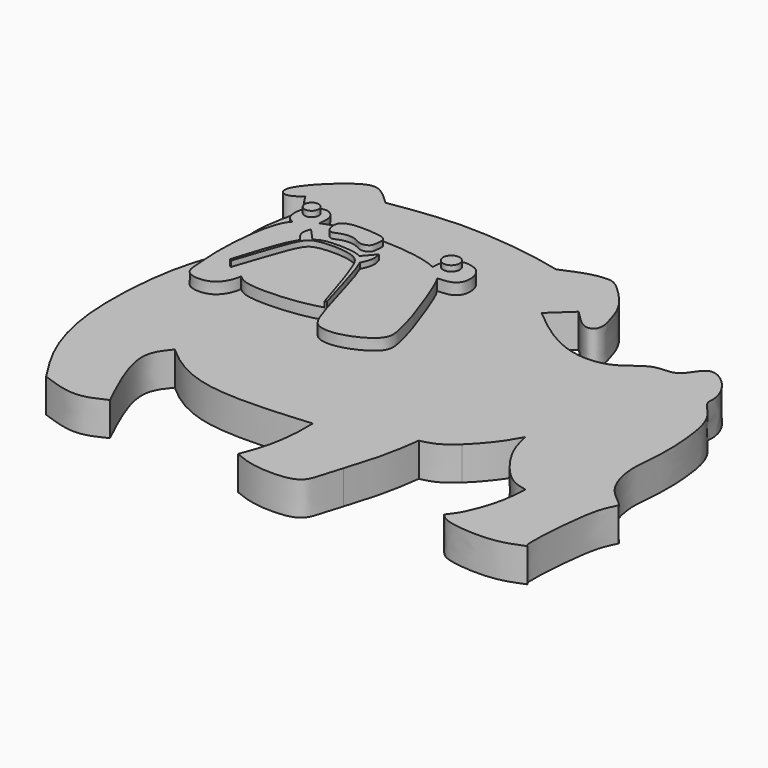
from build123d import *

# Parameters (mm, degrees)
F1_DEPTH = 3
F0_R     = 0.7406308254
F0_R_2   = 0.6253088642
F2_DEPTH = 4
F3_DEPTH = 4.5
F4_DEPTH = 4.5


with BuildPart() as f1:
    # F0 (on Top) → F1 (new body)
    with BuildSketch(Plane.XY):
        with BuildLine():
            add(Edge.make_bspline(
                [(2.3747666273, 7.2205616161), (3.3034100244, 6.4542424252), (5.1155178729, 4.9588858387), (8.1192135558, 3.6121656541), (11.3921713705, 3.9000785755), (13.346186106, 6.1285524159), (15.6519874402, 5.5871305921), (16.5177623069, 7.788565022), (17.9299092285, 7.7487794237), (19.5473458528, 6.091296363), (19.9230430875, 4.5035008864), (19.702481861, 3.7303227845), (21.5381739532, 2.2605049308), (22.121375908, -1.0959105713), (22.2437571431, -4.449275331), (21.7501738349, -7.4286054564), (22.6545439615, -10.4881017453), (24.4206314555, -11.6777837892), (24.6167840328, -11.9597898634), (24.677131325, -12.0465504006)],
                knots=[0, 0, 0, 0, 0.0752134027, 0.1467676373, 0.216584729, 0.2822231501, 0.3375530774, 0.3926311659, 0.4344026798, 0.4942821331, 0.5440974114, 0.5762382612, 0.6329601171, 0.7065819687, 0.7799984528, 0.8492267514, 0.9194421589, 0.9752159893, 1, 1, 1, 1], degree=3))
            add(Edge.make_bspline(
                [(2.3747666273, 7.2205616161), (3.0084988102, 7.8106590857), (3.6422309931, 8.4007565553), (4.275963176, 8.9908540249)],
                knots=[0, 0, 0, 0, 2.5977843501, 2.5977843501, 2.5977843501, 2.5977843501], degree=3))
            add(Edge.make_bspline(
                [(4.275963176, 8.9908540249), (4.9337117858, 8.2912653464), (5.9848280221, 7.1732865201), (7.1991132323, 7.8771364899), (6.6201223389, 9.8174732139), (6.0166003716, 11.4909636088), (4.3564684061, 13.2947218566), (3.3533493291, 14.0597993335), (2.6475865979, 14.113996519), (1.2625995321, 13.9410178576), (-0.1349372376, 13.3370559482), (-0.9426903562, 12.9879759625)],
                knots=[0, 0, 0, 0, 0.1359339245, 0.2172294293, 0.3346840227, 0.4568575829, 0.5939362401, 0.6902822853, 0.7602495495, 0.8614282084, 1, 1, 1, 1], degree=3))
            add(Edge.make_bspline(
                [(-0.9426903562, 12.9879759625), (-1.8576694361, 13.2024737459), (-4.0780442148, 13.7229943554), (-10.4850563986, 14.3562031672), (-14.4895884427, 13.723328785), (-16.478696838, 13.4089710191)],
                knots=[0, 0, 0, 0, 0.2607724504, 0.6328150933, 1, 1, 1, 1], degree=3))
            add(Edge.make_bspline(
                [(-16.478696838, 13.4089710191), (-16.9996513198, 13.908097521), (-17.9725368817, 14.8402192018), (-19.5935724125, 15.0288498318), (-23.7890974805, 10.9769402424), (-22.7423989735, 9.7288798667), (-21.8950136137, 10.3076995118), (-21.4095711708, 10.6392884627)],
                knots=[0, 0, 0, 0, 0.1996809786, 0.3729054032, 0.6994305099, 0.8278124753, 1, 1, 1, 1], degree=3))
            add(Edge.make_bspline(
                [(-21.4095711708, 10.6392884627), (-21.2545388903, 10.3688187674), (-20.9347233913, 9.8108678666), (-20.3618600488, 9.4021102104), (-20.0666952878, 9.191500023)],
                knots=[0, 0, 0, 0, 0.4847553698, 1, 1, 1, 1], degree=3))
            add(Edge.make_bspline(
                [(-20.0666952878, 9.191500023), (-20.3889117568, 7.8963276394), (-20.9822410712, 5.5113975802), (-20.8452261986, 2.6599045441), (-20.3417578222, 1.6235272492), (-20.1250836253, 1.1775087332)],
                knots=[0, 0, 0, 0, 0.4037010171, 0.7433749381, 1, 1, 1, 1], degree=3))
            add(Edge.make_bspline(
                [(-18.5740403831, -21.7938926071), (-19.2851954925, -20.6926027102), (-20.8622189406, -18.2504350766), (-22.6115753784, -12.5172274502), (-22.0338147438, -3.5301288457), (-20.6969898329, -0.2330237028), (-20.1250836253, 1.1775087332)],
                knots=[0, 0, 0, 0, 0.2077642862, 0.4607281121, 0.7692944396, 1, 1, 1, 1], degree=3))
            add(Edge.make_bspline(
                [(-12.8848776221, -21.7938926071), (-13.6489242175, -22.1658508126), (-15.2986139647, -22.9689636614), (-17.4298675694, -22.2043687353), (-18.5740403831, -21.7938926071)],
                knots=[0, 0, 0, 0, 0.4631456289, 1, 1, 1, 1], degree=3))
            add(Edge.make_bspline(
                [(-14.1216944903, -13.0168266343), (-14.6217818818, -13.6238643819), (-15.9796049483, -15.2720760145), (-14.082976315, -19.2690239803), (-12.8848776221, -21.7938926071)],
                knots=[0, 0, 0, 0, 0.3683008514, 1, 1, 1, 1], degree=3))
            add(Edge.make_bspline(
                [(-14.1216944903, -13.0168266343), (-12.8314661231, -14.2035533781), (-9.3257898183, -16.5428089461), (-3.1646078789, -16.0294265011), (0.3507388756, -15.7365091145)],
                knots=[0.2901150019, 0.2901150019, 0.2901150019, 0.2901150019, 0.59496539, 1, 1, 1, 1], degree=3))
            add(Edge.make_bspline(
                [(0.3507388756, -15.7365091145), (0.3633293928, -16.1939741401), (0.393036713, -17.2733626841), (0.1091201611, -20.062477494), (-0.5290016552, -21.7383802838), (-0.8469797322, -22.5734878331)],
                knots=[0, 0, 0, 0, 0.2695561179, 0.6360175518, 1, 1, 1, 1], degree=3))
            add(Edge.make_bspline(
                [(-0.8469797322, -22.5734878331), (-0.2464427659, -22.8256918037), (1.1181905765, -23.3987888264), (5.1978516569, -23.4217112097), (5.5874602106, -21.725842351), (6.0566364227, -20.2382593605), (6.2420622438, -19.6451204608)],
                knots=[0, 0, 0, 0, 0.1674304814, 0.3804615375, 0.538049525, 0.6328982188, 0.6328982188, 0.6328982188, 0.6328982188], degree=3))
            add(Edge.make_bspline(
                [(6.2420622438, -19.6451204608), (6.5375827384, -18.6998114417), (7.3116391069, -16.1931374801), (7.5716939666, -14.2713884432), (7.724664174, -13.1409717724)],
                knots=[0.6328982188, 0.6328982188, 0.6328982188, 0.6328982188, 0.7840623487, 1, 1, 1, 1], degree=3))
            add(Edge.make_bspline(
                [(10.4156805641, -11.710675759), (10.0879959364, -12.0162575878), (9.0921463586, -12.8309206168), (8.2722069315, -13.0168266343), (7.724664174, -13.1409717724)],
                knots=[0.5704788584, 0.5704788584, 0.5704788584, 0.5704788584, 0.7131724826, 1, 1, 1, 1], degree=3))
            add(Edge.make_bspline(
                [(13.1846172735, -8.0964500085), (12.8778873974, -8.6456580234), (12.307736365, -9.6665286364), (11.0209542459, -11.1462286565), (10.4156805641, -11.710675759)],
                knots=[0, 0, 0, 0, 0.30690624, 0.5704788584, 0.5704788584, 0.5704788584, 0.5704788584], degree=3))
            add(Edge.make_bspline(
                [(18.1388631463, -14.2665524036), (17.5930600445, -14.149136598), (16.2402380944, -13.8581109908), (13.7125152217, -10.5231760125), (13.3463255974, -8.8398167825), (13.1846172735, -8.0964500085)],
                knots=[0, 0, 0, 0, 0.2741309926, 0.6794582566, 1, 1, 1, 1], degree=3))
            add(Edge.make_bspline(
                [(16.067808494, -20.7332838327), (16.3237795444, -20.4068603301), (16.9555793846, -19.6011664189), (17.9847232574, -16.7314163761), (18.0889950015, -15.0639981157), (18.1388631463, -14.2665524036)],
                knots=[0, 0, 0, 0, 0.2621856412, 0.6471389868, 1, 1, 1, 1], degree=3))
            add(Edge.make_bspline(
                [(23.5854033381, -20.8381973207), (22.8089907119, -21.1677096812), (21.093869921, -21.8956132228), (16.8239563967, -21.5588847849), (16.2551832498, -20.9378691741), (16.067808494, -20.7332838327)],
                knots=[0, 0, 0, 0, 0.356759289, 0.7880928946, 1, 1, 1, 1], degree=3))
            add(Edge.make_bspline(
                [(24.677131325, -12.0465504006), (24.4651291659, -12.4883301599), (23.9464533135, -13.5691705349), (23.5664192315, -16.3783728516), (23.2643397066, -20.7518252337), (23.5394883614, -20.8258453382), (23.5854033381, -20.8381973207)],
                knots=[0, 0, 0, 0, 0.2274506226, 0.5564714341, 0.9259869042, 1, 1, 1, 1], degree=3))
        make_face()
        with BuildLine():
            add(Edge.make_bspline(
                [(-8.5631018488, -3.0215675186), (-8.4077788969, -3.5211906066), (-7.9236492641, -4.9665875958), (-7.3063124694, -5.6668383008), (-5.4516575061, -5.7237957498), (-3.2454086406, -4.7437702208), (-2.2876851124, -3.6113876414), (-2.689725018, -1.9845379118), (-3.2140869629, 0.0584478567), (-4.3978165301, 3.1644126129), (-5.0690148371, 4.8184328899), (-5.3745967369, 5.2704458567)],
                knots=[0.2157281369, 0.2157281369, 0.2157281369, 0.2157281369, 0.2314098514, 0.2668107637, 0.3031552038, 0.3473840759, 0.3799905255, 0.4145269372, 0.4563500532, 0.5131204439, 0.5388629358, 0.5388629358, 0.5388629358, 0.5388629358], degree=3))
            add(Edge.make_bspline(
                [(-8.7267227384, -3.0671977011), (-8.672098313, -3.0520062317), (-8.6176000809, -3.0367868751), (-8.5631018488, -3.0215675186)],
                knots=[0.9747999127, 0.9747999127, 0.9747999127, 0.9747999127, 1, 1, 1, 1], degree=3))
            add(Edge.make_bspline(
                [(-16.2186771282, -3.0215675186), (-15.9550136627, -3.2329653441), (-15.1992093932, -3.8389475908), (-11.0726233732, -3.6962815107), (-9.4112151224, -3.2575602551), (-8.7267227384, -3.0671977011)],
                knots=[0, 0, 0, 0, 0.2299003078, 0.6590205203, 0.9747999127, 0.9747999127, 0.9747999127, 0.9747999127], degree=3))
            add(Edge.make_bspline(
                [(-16.2186771282, -3.0215675186), (-16.2191197308, -3.0214196291), (-16.2195623332, -3.0212717391), (-16.2200049352, -3.0211238488)],
                knots=[0, 0, 0, 0, 0.0006876573, 0.0006876573, 0.0006876573, 0.0006876573], degree=3))
            add(Edge.make_bspline(
                [(-18.5406778501, 5.647482125), (-18.6991186689, 5.4792161515), (-19.5330649599, 4.3031403751), (-20.0018802881, -0.6644938026), (-19.6994078767, -3.3876520825), (-19.6395243976, -5.194073691), (-16.8262929422, -5.2762775608), (-16.2141511448, -3.3438361344), (-16.2155225413, -3.0668632481), (-16.2200049238, -3.0211238439)],
                knots=[0.7414974335, 0.7414974335, 0.7414974335, 0.7414974335, 0.7560005549, 0.8236275316, 0.8726296091, 0.9058145495, 0.9474646407, 0.9858826009, 0.9954942751, 0.9954942751, 0.9954942751, 0.9954942751], degree=3))
            add(Edge.make_bspline(
                [(-18.1203261018, 8.4269801155), (-18.2398608574, 8.4214158087), (-18.5578775456, 8.4065893972), (-19.3394348758, 7.5611482976), (-19.3082685326, 5.9714511985), (-18.7667256232, 5.7430439356), (-18.5406778501, 5.647482125)],
                knots=[0, 0, 0, 0, 0.1679759219, 0.4470992043, 0.7697138722, 1, 1, 1, 1], degree=3))
            add(Edge.make_bspline(
                [(-18.1203261018, 8.4269801155), (-17.9631114853, 8.4530048769), (-17.6018538335, 8.5129019742), (-16.792943546, 7.9126387345), (-16.8966575733, 7.0725704138), (-16.9534026011, 6.6068549728)],
                knots=[0, 0, 0, 0, 0.2558862328, 0.5884709838, 1, 1, 1, 1], degree=3))
            add(Edge.make_bspline(
                [(-6.6840633605, 6.4085222624), (-6.7152595431, 6.4239986821), (-8.6439737355, 7.3502160061), (-14.592700901, 7.4175128787), (-16.1393934995, 6.9442184693), (-16.7939197112, 6.6764179864), (-16.9534026011, 6.6068549728)],
                knots=[0.5645610039, 0.5645610039, 0.5645610039, 0.5645610039, 0.5658893718, 0.6452869129, 0.6851438687, 0.6979042058, 0.6979042058, 0.6979042058, 0.6979042058], degree=3))
            add(Edge.make_bspline(
                [(-4.9495706335, 8.2928715274), (-5.0962779641, 8.3112912274), (-5.457160534, 8.3566323954), (-6.573088087, 7.8681590116), (-6.6451546441, 6.9187428754), (-6.6840633605, 6.4085222624)],
                knots=[0, 0, 0, 0, 0.2407056074, 0.5922737836, 1, 1, 1, 1], degree=3))
            add(Edge.make_bspline(
                [(-4.9495706335, 8.2928715274), (-4.628978399, 8.2284386892), (-3.9350236737, 8.0887461408), (-3.324830381, 6.7604236235), (-3.7711092034, 5.3496872953), (-4.8199143943, 5.3004828551), (-5.3745967369, 5.2704458567)],
                knots=[0, 0, 0, 0, 0.2204062847, 0.4781006748, 0.7264486503, 1, 1, 1, 1], degree=3))
        make_face(mode=Mode.SUBTRACT)
    extrude(amount=F1_DEPTH)

    # F0 (on Top) → F2 (join)
    with BuildSketch(Plane.XY):
        with BuildLine():
            add(Edge.make_bspline(
                [(-16.2186771282, -3.0215675186), (-15.9550136627, -3.2329653441), (-15.1992093932, -3.8389475908), (-11.0726233732, -3.6962815107), (-9.4112151224, -3.2575602551), (-8.7267227384, -3.0671977011)],
                knots=[0, 0, 0, 0, 0.2299003078, 0.6590205203, 0.9747999127, 0.9747999127, 0.9747999127, 0.9747999127], degree=3))
            add(Edge.make_bspline(
                [(-17.6357100788, -2.3862889138), (-17.4960470556, -1.990570169), (-17.1319717505, -0.9588330818), (-15.9005154224, 2.929638214), (-14.935791761, 3.8519318605), (-11.3008092903, 3.8294305266), (-10.358566913, 2.1867343737), (-9.367421148, -1.0044631359), (-8.7267227384, -3.0671977011)],
                knots=[0.0001920886, 0.0001920886, 0.0001920886, 0.0001920886, 0.1264318293, 0.3289759994, 0.4461699191, 0.6273647133, 0.7590731578, 1, 1, 1, 1], degree=3))
            add(Edge.make_bspline(
                [(-16.2200049352, -3.0211238488), (-16.5709640215, -2.903854901), (-17.1173694692, -2.7207007085), (-17.5046689517, -2.4762413219), (-17.6357100788, -2.3862889138)],
                knots=[0.0006876573, 0.0006876573, 0.0006876573, 0.0006876573, 0.5459620907, 0.8501638615, 0.8501638615, 0.8501638615, 0.8501638615], degree=3))
            add(Edge.make_bspline(
                [(-16.2186771282, -3.0215675186), (-16.2191197308, -3.0214196291), (-16.2195623332, -3.0212717391), (-16.2200049352, -3.0211238488)],
                knots=[0, 0, 0, 0, 0.0006876573, 0.0006876573, 0.0006876573, 0.0006876573], degree=3))
        make_face()
        with BuildLine():
            add(Edge.make_bspline(
                [(-11.0879484564, 3.7467530929), (-10.8640249456, 3.6276763778), (-10.6728888464, 3.4945383694), (-10.439183563, 2.9981788248)],
                knots=[0.1244850348, 0.1244850348, 0.1244850348, 0.1244850348, 0.1527557767, 0.1527557767, 0.1527557767, 0.1527557767], degree=3))
            add(Edge.make_bspline(
                [(-15.1801537722, 3.6469427869), (-14.9563785839, 3.8159189058), (-14.3801282472, 4.1674118994), (-11.9445501609, 4.1262767042), (-11.3030787482, 3.8611538021), (-11.0879484564, 3.7467530929)],
                knots=[0.0261856124, 0.0261856124, 0.0261856124, 0.0261856124, 0.053485773, 0.0973244525, 0.1244850348, 0.1244850348, 0.1244850348, 0.1244850348], degree=3))
            add(Edge.make_bspline(
                [(-15.8289186656, 3.0979879666), (-15.6118559238, 3.2914266014), (-15.394793182, 3.4848652361), (-15.1801537722, 3.6469427869)],
                knots=[0, 0, 0, 0, 0.0261856124, 0.0261856124, 0.0261856124, 0.0261856124], degree=3))
            add(Edge.make_bspline(
                [(-15.8289186656, 3.0979879666), (-16.0107108979, 2.78904549), (-16.511290126, 1.9383480504), (-17.3045265585, -0.5678934367), (-17.8252987767, -2.2522665464)],
                knots=[0, 0, 0, 0, 0.3312198411, 0.9120399172, 0.9120399172, 0.9120399172, 0.9120399172], degree=3))
            add(Edge.make_bspline(
                [(-17.6357100788, -2.3862889138), (-17.7002550564, -2.341982395), (-17.7629433847, -2.2970911235), (-17.8252987767, -2.2522665464)],
                knots=[0.8501638615, 0.8501638615, 0.8501638615, 0.8501638615, 1, 1, 1, 1], degree=3))
            add(Edge.make_bspline(
                [(-17.6357100788, -2.3862889138), (-17.4960470556, -1.990570169), (-17.1319717505, -0.9588330818), (-15.9005154224, 2.929638214), (-14.935791761, 3.8519318605), (-11.3008092903, 3.8294305266), (-10.358566913, 2.1867343737), (-9.367421148, -1.0044631359), (-8.7267227384, -3.0671977011)],
                knots=[0.0001920886, 0.0001920886, 0.0001920886, 0.0001920886, 0.1264318293, 0.3289759994, 0.4461699191, 0.6273647133, 0.7590731578, 1, 1, 1, 1], degree=3))
            add(Edge.make_bspline(
                [(-8.7267227384, -3.0671977011), (-8.672098313, -3.0520062317), (-8.6176000809, -3.0367868751), (-8.5631018488, -3.0215675186)],
                knots=[0.9747999127, 0.9747999127, 0.9747999127, 0.9747999127, 1, 1, 1, 1], degree=3))
            add(Edge.make_bspline(
                [(-10.439183563, 2.9981788248), (-9.9186109748, 1.8925505351), (-9.1868252831, -1.015253419), (-8.5631018488, -3.0215675186)],
                knots=[0.1527557767, 0.1527557767, 0.1527557767, 0.1527557767, 0.2157281369, 0.2157281369, 0.2157281369, 0.2157281369], degree=3))
        make_face()
        with BuildLine():
            add(Edge.make_bspline(
                [(-15.1801537722, 3.6469427869), (-14.9563785839, 3.8159189058), (-14.3801282472, 4.1674118994), (-11.9445501609, 4.1262767042), (-11.3030787482, 3.8611538021), (-11.0879484564, 3.7467530929)],
                knots=[0.0261856124, 0.0261856124, 0.0261856124, 0.0261856124, 0.053485773, 0.0973244525, 0.1244850348, 0.1244850348, 0.1244850348, 0.1244850348], degree=3))
            add(Edge.make_bspline(
                [(-11.0879484564, 3.7467530929), (-10.788518625, 4.0960873788), (-10.4890887936, 4.4454216647), (-10.1896589622, 4.7947559506)],
                knots=[0, 0, 0, 0, 1.3803021427, 1.3803021427, 1.3803021427, 1.3803021427], degree=3))
            add(Edge.make_bspline(
                [(-10.439183563, 2.9981788248), (-10.2814576172, 3.338245442), (-9.9861423662, 3.974962869), (-10.1249756351, 4.5342025356), (-10.1896589622, 4.7947559506)],
                knots=[0, 0, 0, 0, 0.5340934657, 1, 1, 1, 1], degree=3))
            add(Edge.make_bspline(
                [(-10.439183563, 2.9981788248), (-9.9186109748, 1.8925505351), (-9.1868252831, -1.015253419), (-8.5631018488, -3.0215675186)],
                knots=[0.1527557767, 0.1527557767, 0.1527557767, 0.1527557767, 0.2157281369, 0.2157281369, 0.2157281369, 0.2157281369], degree=3))
            add(Edge.make_bspline(
                [(-8.5631018488, -3.0215675186), (-8.4077788969, -3.5211906066), (-7.9236492641, -4.9665875958), (-7.3063124694, -5.6668383008), (-5.4516575061, -5.7237957498), (-3.2454086406, -4.7437702208), (-2.2876851124, -3.6113876414), (-2.689725018, -1.9845379118), (-3.2140869629, 0.0584478567), (-4.3978165301, 3.1644126129), (-5.0690148371, 4.8184328899), (-5.3745967369, 5.2704458567)],
                knots=[0.2157281369, 0.2157281369, 0.2157281369, 0.2157281369, 0.2314098514, 0.2668107637, 0.3031552038, 0.3473840759, 0.3799905255, 0.4145269372, 0.4563500532, 0.5131204439, 0.5388629358, 0.5388629358, 0.5388629358, 0.5388629358], degree=3))
            add(Edge.make_bspline(
                [(-5.3745967369, 5.2704458567), (-5.6796512942, 5.721678785), (-6.0805546342, 6.1091217089), (-6.6840633605, 6.4085222624)],
                knots=[0.5388629358, 0.5388629358, 0.5388629358, 0.5388629358, 0.5645610039, 0.5645610039, 0.5645610039, 0.5645610039], degree=3))
            add(Edge.make_bspline(
                [(-6.6840633605, 6.4085222624), (-6.7152595431, 6.4239986821), (-8.6439737355, 7.3502160061), (-14.592700901, 7.4175128787), (-16.1393934995, 6.9442184693), (-16.7939197112, 6.6764179864), (-16.9534026011, 6.6068549728)],
                knots=[0.5645610039, 0.5645610039, 0.5645610039, 0.5645610039, 0.5658893718, 0.6452869129, 0.6851438687, 0.6979042058, 0.6979042058, 0.6979042058, 0.6979042058], degree=3))
            add(Edge.make_bspline(
                [(-16.9534026011, 6.6068549728), (-17.207932061, 6.4958346852), (-17.7568762161, 6.2330066359), (-18.2869195906, 5.9169763178), (-18.5406778501, 5.647482125)],
                knots=[0.6979042058, 0.6979042058, 0.6979042058, 0.6979042058, 0.7182692851, 0.7414974335, 0.7414974335, 0.7414974335, 0.7414974335], degree=3))
            add(Edge.make_bspline(
                [(-18.5406778501, 5.647482125), (-18.6991186689, 5.4792161515), (-19.5330649599, 4.3031403751), (-20.0018802881, -0.6644938026), (-19.6994078767, -3.3876520825), (-19.6395243976, -5.194073691), (-16.8262929422, -5.2762775608), (-16.2141511448, -3.3438361344), (-16.2155225413, -3.0668632481), (-16.2200049238, -3.0211238439)],
                knots=[0.7414974335, 0.7414974335, 0.7414974335, 0.7414974335, 0.7560005549, 0.8236275316, 0.8726296091, 0.9058145495, 0.9474646407, 0.9858826009, 0.9954942751, 0.9954942751, 0.9954942751, 0.9954942751], degree=3))
            add(Edge.make_bspline(
                [(-16.2200049352, -3.0211238488), (-16.5709640215, -2.903854901), (-17.1173694692, -2.7207007085), (-17.5046689517, -2.4762413219), (-17.6357100788, -2.3862889138)],
                knots=[0.0006876573, 0.0006876573, 0.0006876573, 0.0006876573, 0.5459620907, 0.8501638615, 0.8501638615, 0.8501638615, 0.8501638615], degree=3))
            add(Edge.make_bspline(
                [(-17.6357100788, -2.3862889138), (-17.7002550564, -2.341982395), (-17.7629433847, -2.2970911235), (-17.8252987767, -2.2522665464)],
                knots=[0.8501638615, 0.8501638615, 0.8501638615, 0.8501638615, 1, 1, 1, 1], degree=3))
            add(Edge.make_bspline(
                [(-15.8289186656, 3.0979879666), (-16.0107108979, 2.78904549), (-16.511290126, 1.9383480504), (-17.3045265585, -0.5678934367), (-17.8252987767, -2.2522665464)],
                knots=[0, 0, 0, 0, 0.3312198411, 0.9120399172, 0.9120399172, 0.9120399172, 0.9120399172], degree=3))
            add(Edge.make_bspline(
                [(-15.8289186656, 3.0979879666), (-16.0735234185, 3.374678638), (-16.5439795447, 3.9068466352), (-16.3305965667, 4.5067574177), (-16.2281580269, 4.7947559506)],
                knots=[0, 0, 0, 0, 0.5199310611, 1, 1, 1, 1], degree=3))
            add(Edge.make_bspline(
                [(-16.2281580269, 4.7947559506), (-15.8788232754, 4.4121515627), (-15.5294885238, 4.0295471748), (-15.1801537722, 3.6469427869)],
                knots=[0, 0, 0, 0, 1.5542805334, 1.5542805334, 1.5542805334, 1.5542805334], degree=3))
        make_face()
        with BuildLine():
            add(Edge.make_bspline(
                [(-15.0233544409, 5.4051587358), (-14.7968607744, 5.285033661), (-14.1459989367, 5.7191070686), (-12.9056078578, 5.7109481462), (-12.2720719049, 5.1487768782), (-11.3878681292, 5.4187196522), (-11.3403018842, 6.0317723864), (-11.1990564305, 6.9595590651), (-12.5433181719, 7.1705258457), (-14.7060882964, 7.2472658238), (-15.5773924318, 6.5263115491), (-15.2698017857, 5.5358666102), (-15.0233544409, 5.4051587358)],
                knots=[0, 0, 0, 0, 0.0947804106, 0.205107202, 0.2947777481, 0.3804736709, 0.4565924562, 0.5427352809, 0.6503835276, 0.7998791019, 0.8968696084, 1, 1, 1, 1], degree=3))
        make_face(mode=Mode.SUBTRACT)
        with BuildLine():
            add(Edge.make_bspline(
                [(-5.3745967369, 5.2704458567), (-5.6796512942, 5.721678785), (-6.0805546342, 6.1091217089), (-6.6840633605, 6.4085222624)],
                knots=[0.5388629358, 0.5388629358, 0.5388629358, 0.5388629358, 0.5645610039, 0.5645610039, 0.5645610039, 0.5645610039], degree=3))
            add(Edge.make_bspline(
                [(-4.9495706335, 8.2928715274), (-4.628978399, 8.2284386892), (-3.9350236737, 8.0887461408), (-3.324830381, 6.7604236235), (-3.7711092034, 5.3496872953), (-4.8199143943, 5.3004828551), (-5.3745967369, 5.2704458567)],
                knots=[0, 0, 0, 0, 0.2204062847, 0.4781006748, 0.7264486503, 1, 1, 1, 1], degree=3))
            add(Edge.make_bspline(
                [(-4.9495706335, 8.2928715274), (-5.0962779641, 8.3112912274), (-5.457160534, 8.3566323954), (-6.573088087, 7.8681590116), (-6.6451546441, 6.9187428754), (-6.6840633605, 6.4085222624)],
                knots=[0, 0, 0, 0, 0.2407056074, 0.5922737836, 1, 1, 1, 1], degree=3))
        make_face()
        with Locations((-5.6731919758, 7.244868204)):
            Circle(F0_R, mode=Mode.SUBTRACT)
        with BuildLine():
            add(Edge.make_bspline(
                [(-16.9534026011, 6.6068549728), (-17.207932061, 6.4958346852), (-17.7568762161, 6.2330066359), (-18.2869195906, 5.9169763178), (-18.5406778501, 5.647482125)],
                knots=[0.6979042058, 0.6979042058, 0.6979042058, 0.6979042058, 0.7182692851, 0.7414974335, 0.7414974335, 0.7414974335, 0.7414974335], degree=3))
            add(Edge.make_bspline(
                [(-18.1203261018, 8.4269801155), (-17.9631114853, 8.4530048769), (-17.6018538335, 8.5129019742), (-16.792943546, 7.9126387345), (-16.8966575733, 7.0725704138), (-16.9534026011, 6.6068549728)],
                knots=[0, 0, 0, 0, 0.2558862328, 0.5884709838, 1, 1, 1, 1], degree=3))
            add(Edge.make_bspline(
                [(-18.1203261018, 8.4269801155), (-18.2398608574, 8.4214158087), (-18.5578775456, 8.4065893972), (-19.3394348758, 7.5611482976), (-19.3082685326, 5.9714511985), (-18.7667256232, 5.7430439356), (-18.5406778501, 5.647482125)],
                knots=[0, 0, 0, 0, 0.1679759219, 0.4470992043, 0.7697138722, 1, 1, 1, 1], degree=3))
        make_face()
        with Locations((-18.3241665363, 7.4896230362)):
            Circle(F0_R_2, mode=Mode.SUBTRACT)
    extrude(amount=F2_DEPTH)

    # F0 (on Top) → F3 (join)
    with BuildSketch(Plane.XY):
        with Locations((-18.3241665363, 7.4896230362)):
            Circle(F0_R_2)
        with Locations((-5.6731919758, 7.244868204)):
            Circle(F0_R)
        with BuildLine():
            add(Edge.make_bspline(
                [(-15.0233544409, 5.4051587358), (-14.7968607744, 5.285033661), (-14.1459989367, 5.7191070686), (-12.9056078578, 5.7109481462), (-12.2720719049, 5.1487768782), (-11.3878681292, 5.4187196522), (-11.3403018842, 6.0317723864), (-11.1990564305, 6.9595590651), (-12.5433181719, 7.1705258457), (-14.7060882964, 7.2472658238), (-15.5773924318, 6.5263115491), (-15.2698017857, 5.5358666102), (-15.0233544409, 5.4051587358)],
                knots=[0, 0, 0, 0, 0.0947804106, 0.205107202, 0.2947777481, 0.3804736709, 0.4565924562, 0.5427352809, 0.6503835276, 0.7998791019, 0.8968696084, 1, 1, 1, 1], degree=3))
        make_face()
        with BuildLine():
            add(Edge.make_bspline(
                [(-11.0879484564, 3.7467530929), (-10.788518625, 4.0960873788), (-10.4890887936, 4.4454216647), (-10.1896589622, 4.7947559506)],
                knots=[0, 0, 0, 0, 1.3803021427, 1.3803021427, 1.3803021427, 1.3803021427], degree=3))
            add(Edge.make_bspline(
                [(-11.0879484564, 3.7467530929), (-10.8640249456, 3.6276763778), (-10.6728888464, 3.4945383694), (-10.439183563, 2.9981788248)],
                knots=[0.1244850348, 0.1244850348, 0.1244850348, 0.1244850348, 0.1527557767, 0.1527557767, 0.1527557767, 0.1527557767], degree=3))
            add(Edge.make_bspline(
                [(-10.439183563, 2.9981788248), (-10.2814576172, 3.338245442), (-9.9861423662, 3.974962869), (-10.1249756351, 4.5342025356), (-10.1896589622, 4.7947559506)],
                knots=[0, 0, 0, 0, 0.5340934657, 1, 1, 1, 1], degree=3))
        make_face()
        with BuildLine():
            add(Edge.make_bspline(
                [(-15.8289186656, 3.0979879666), (-15.6118559238, 3.2914266014), (-15.394793182, 3.4848652361), (-15.1801537722, 3.6469427869)],
                knots=[0, 0, 0, 0, 0.0261856124, 0.0261856124, 0.0261856124, 0.0261856124], degree=3))
            add(Edge.make_bspline(
                [(-16.2281580269, 4.7947559506), (-15.8788232754, 4.4121515627), (-15.5294885238, 4.0295471748), (-15.1801537722, 3.6469427869)],
                knots=[0, 0, 0, 0, 1.5542805334, 1.5542805334, 1.5542805334, 1.5542805334], degree=3))
            add(Edge.make_bspline(
                [(-15.8289186656, 3.0979879666), (-16.0735234185, 3.374678638), (-16.5439795447, 3.9068466352), (-16.3305965667, 4.5067574177), (-16.2281580269, 4.7947559506)],
                knots=[0, 0, 0, 0, 0.5199310611, 1, 1, 1, 1], degree=3))
        make_face()
    extrude(amount=F3_DEPTH)

    # F0 (on Top) → F4 (join)
    with BuildSketch(Plane.XY):
        with BuildLine():
            add(Edge.make_bspline(
                [(-11.0879484564, 3.7467530929), (-10.8640249456, 3.6276763778), (-10.6728888464, 3.4945383694), (-10.439183563, 2.9981788248)],
                knots=[0.1244850348, 0.1244850348, 0.1244850348, 0.1244850348, 0.1527557767, 0.1527557767, 0.1527557767, 0.1527557767], degree=3))
            add(Edge.make_bspline(
                [(-15.1801537722, 3.6469427869), (-14.9563785839, 3.8159189058), (-14.3801282472, 4.1674118994), (-11.9445501609, 4.1262767042), (-11.3030787482, 3.8611538021), (-11.0879484564, 3.7467530929)],
                knots=[0.0261856124, 0.0261856124, 0.0261856124, 0.0261856124, 0.053485773, 0.0973244525, 0.1244850348, 0.1244850348, 0.1244850348, 0.1244850348], degree=3))
            add(Edge.make_bspline(
                [(-15.8289186656, 3.0979879666), (-15.6118559238, 3.2914266014), (-15.394793182, 3.4848652361), (-15.1801537722, 3.6469427869)],
                knots=[0, 0, 0, 0, 0.0261856124, 0.0261856124, 0.0261856124, 0.0261856124], degree=3))
            add(Edge.make_bspline(
                [(-15.8289186656, 3.0979879666), (-16.0107108979, 2.78904549), (-16.511290126, 1.9383480504), (-17.3045265585, -0.5678934367), (-17.8252987767, -2.2522665464)],
                knots=[0, 0, 0, 0, 0.3312198411, 0.9120399172, 0.9120399172, 0.9120399172, 0.9120399172], degree=3))
            add(Edge.make_bspline(
                [(-17.6357100788, -2.3862889138), (-17.7002550564, -2.341982395), (-17.7629433847, -2.2970911235), (-17.8252987767, -2.2522665464)],
                knots=[0.8501638615, 0.8501638615, 0.8501638615, 0.8501638615, 1, 1, 1, 1], degree=3))
            add(Edge.make_bspline(
                [(-17.6357100788, -2.3862889138), (-17.4960470556, -1.990570169), (-17.1319717505, -0.9588330818), (-15.9005154224, 2.929638214), (-14.935791761, 3.8519318605), (-11.3008092903, 3.8294305266), (-10.358566913, 2.1867343737), (-9.367421148, -1.0044631359), (-8.7267227384, -3.0671977011)],
                knots=[0.0001920886, 0.0001920886, 0.0001920886, 0.0001920886, 0.1264318293, 0.3289759994, 0.4461699191, 0.6273647133, 0.7590731578, 1, 1, 1, 1], degree=3))
            add(Edge.make_bspline(
                [(-8.7267227384, -3.0671977011), (-8.672098313, -3.0520062317), (-8.6176000809, -3.0367868751), (-8.5631018488, -3.0215675186)],
                knots=[0.9747999127, 0.9747999127, 0.9747999127, 0.9747999127, 1, 1, 1, 1], degree=3))
            add(Edge.make_bspline(
                [(-10.439183563, 2.9981788248), (-9.9186109748, 1.8925505351), (-9.1868252831, -1.015253419), (-8.5631018488, -3.0215675186)],
                knots=[0.1527557767, 0.1527557767, 0.1527557767, 0.1527557767, 0.2157281369, 0.2157281369, 0.2157281369, 0.2157281369], degree=3))
        make_face()
    extrude(amount=F4_DEPTH)


solid = f1.part
